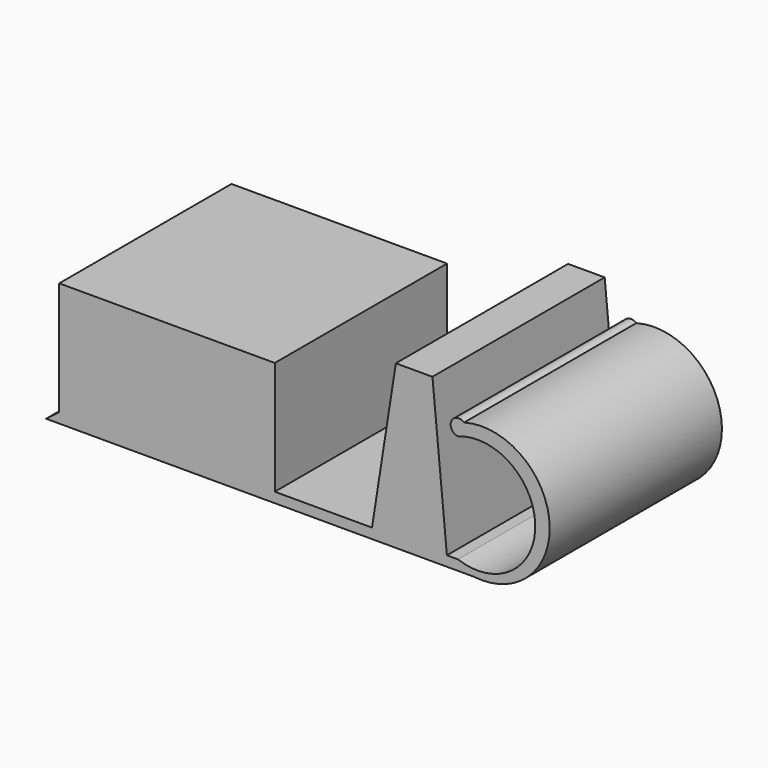
from build123d import *

# Parameters (mm, degrees)
F0_W     = 124.614488
F0_H     = 65.524992
F1_DEPTH = 124.46


with BuildPart() as f1:
    # F0 (on Front) → F1 (new body)
    with BuildSketch(Plane.XZ):
        with Locations((-40.518718, 1.739735)):
            Rectangle(F0_W, F0_H)
        Polygon((21.788526, -31.022761), (-102.825962, -31.022761), (-110.431544, -36.873206), (137.042314, -36.873206), (127.681583, -31.022761), (121.282354, -31.022761), (77.989712, -31.022761), align=None)
        Polygon((91.764651, 57.09333), (77.989712, -31.022761), (121.282354, -31.022761), (112.919003, 57.09333), align=None)
        with BuildLine():
            Line((127.681583, -31.022761), (137.042314, -36.873206))
            ThreePointArc((137.042314, -36.873206), (180.593446, 4.995028), (131.191865, 39.76763))
            ThreePointArc((131.191865, 39.76763), (123.821562, 38.078823), (127.681583, 31.577002))
            ThreePointArc((127.681583, 31.577002), (172.372699, 0.277121), (127.681583, -31.022761))
        make_face()
    extrude(amount=F1_DEPTH)


solid = f1.part
